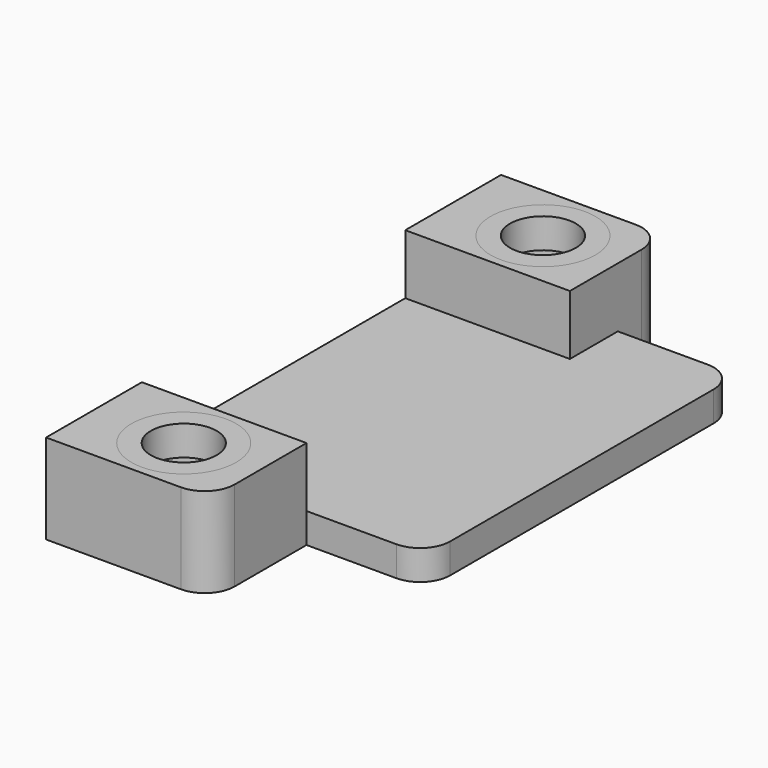
from build123d import *

# Parameters (mm, degrees)
F0_W     = 5.5
F0_H     = 11
F1_DEPTH = 1
F0_R     = 1.75
F2_DEPTH = 3
F3_START = 2
F0_R_2   = 1.1
F3_DEPTH = 1


with BuildPart() as f1:
    # F0 (on Top) → F1 (new body)
    with BuildSketch(Plane.XY):
        Rectangle(F0_W, F0_H)
        with BuildLine():
            Line((2.75, 7.5), (2.75, 5.5))
            Line((2.75, 5.5), (2.75, -5.5))
            Line((2.75, -5.5), (5.75, -5.5))
            ThreePointArc((5.75, -5.5), (6.4571067812, -5.2071067812), (6.75, -4.5))
            Line((6.75, -4.5), (6.75, 6.5))
            ThreePointArc((6.75, 6.5), (6.4571067812, 7.2071067812), (5.75, 7.5))
            Line((5.75, 7.5), (2.75, 7.5))
        make_face()
    extrude(amount=F1_DEPTH)

    # F0 (on Top) → F2 (join)
    with BuildSketch(Plane.XY):
        with BuildLine():
            Line((1.75, 9.5), (-2.75, 9.5))
            Line((-2.75, 9.5), (-2.75, 5.5))
            Line((-2.75, 5.5), (2.75, 5.5))
            Line((2.75, 5.5), (2.75, 7.5))
            Line((2.75, 7.5), (2.75, 8.5))
            ThreePointArc((2.75, 8.5), (2.4571067812, 9.2071067812), (1.75, 9.5))
        make_face()
        with Locations((0.25, 7.5)):
            Circle(F0_R, mode=Mode.SUBTRACT)
        with BuildLine():
            Line((2.75, -5.5), (-2.75, -5.5))
            Line((-2.75, -5.5), (-2.75, -9.5))
            Line((-2.75, -9.5), (1.75, -9.5))
            ThreePointArc((1.75, -9.5), (2.4571067812, -9.2071067812), (2.75, -8.5))
            Line((2.75, -8.5), (2.75, -5.5))
        make_face()
        with Locations((0.25, -7.5)):
            Circle(F0_R, mode=Mode.SUBTRACT)
    extrude(amount=F2_DEPTH)


with BuildPart() as f3:
    # F0 (on Top) → F3 (new body)
    with BuildSketch(Plane.XY.offset(F3_START)):
        with Locations((0.25, 7.5)):
            Circle(F0_R)
        with Locations((0.25, 7.5)):
            Circle(F0_R_2, mode=Mode.SUBTRACT)
    extrude(amount=F3_DEPTH)


with BuildPart() as f3b:
    # F0 (on Top) → F3, piece 2 (new body)
    with BuildSketch(Plane.XY.offset(F3_START)):
        with Locations((0.25, -7.5)):
            Circle(F0_R)
        with Locations((0.25, -7.5)):
            Circle(F0_R_2, mode=Mode.SUBTRACT)
    extrude(amount=F3_DEPTH)


solid = Compound([f1.part, f3.part, f3b.part])
